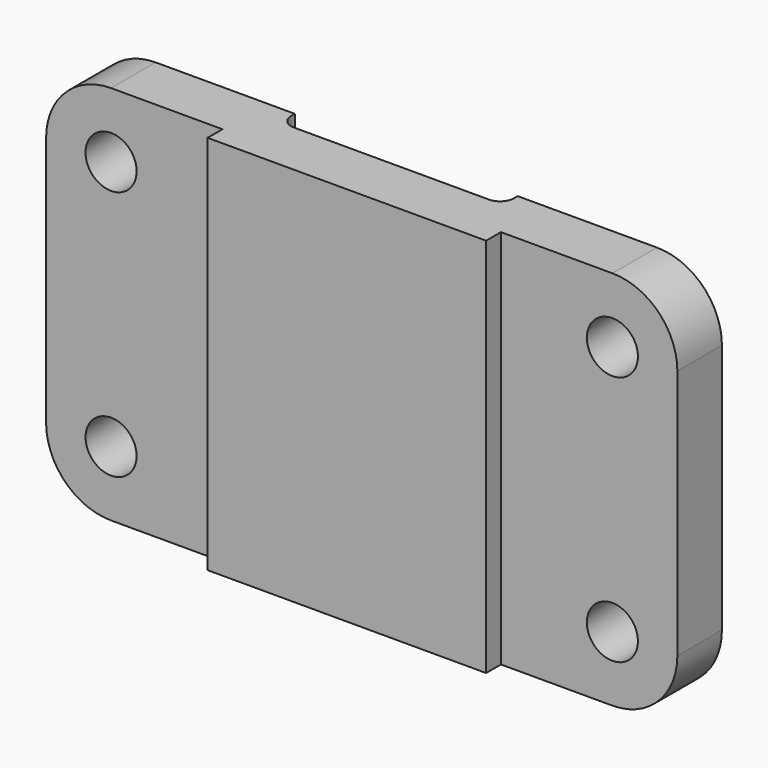
from build123d import *

# Parameters (mm, degrees)
F0_R     = 5.5
F1_DEPTH = 16
F2_W     = 38
F2_H     = 4
F3_DEPTH = 82.001
F5_DEPTH = 82.001


with BuildPart() as f1:
    # F0 (on Front) → F1 (new body)
    with BuildSketch(Plane.XZ):
        with BuildLine():
            ThreePointArc((0, 14), (4.100505, 4.100505), (14, 0))
            Line((14, 0), (122, 0))
            ThreePointArc((122, 0), (131.899495, 4.100505), (136, 14))
            Line((136, 14), (136, 68))
            ThreePointArc((136, 68), (131.899495, 77.899495), (122, 82))
            Line((122, 82), (14, 82))
            ThreePointArc((14, 82), (4.100505, 77.899495), (0, 68))
            Line((0, 68), (0, 14))
        make_face()
        with Locations((14, 14)):
            Circle(F0_R, mode=Mode.SUBTRACT)
        with Locations((122, 14)):
            Circle(F0_R, mode=Mode.SUBTRACT)
        with Locations((14, 68)):
            Circle(F0_R, mode=Mode.SUBTRACT)
        with Locations((122, 68)):
            Circle(F0_R, mode=Mode.SUBTRACT)
    extrude(amount=F1_DEPTH)

    # F2 (on Top) → F3 (cut, through all)
    with BuildSketch(Plane.XY):
        with Locations((19, -14)):
            Rectangle(F2_W, F2_H)
        with Locations((117, -14)):
            Rectangle(F2_W, F2_H)
    extrude(amount=F3_DEPTH, mode=Mode.SUBTRACT)

    # F4 (on Top) → F5 (cut, through all)
    with BuildSketch(Plane.XY):
        with BuildLine():
            Line((92, 0), (44, 0))
            Line((44, 0), (44, -1))
            ThreePointArc((44, -1), (44.87868, -3.12132), (47, -4))
            Line((47, -4), (89, -4))
            ThreePointArc((89, -4), (91.12132, -3.12132), (92, -1))
            Line((92, -1), (92, 0))
        make_face()
    extrude(amount=F5_DEPTH, mode=Mode.SUBTRACT)


solid = f1.part
